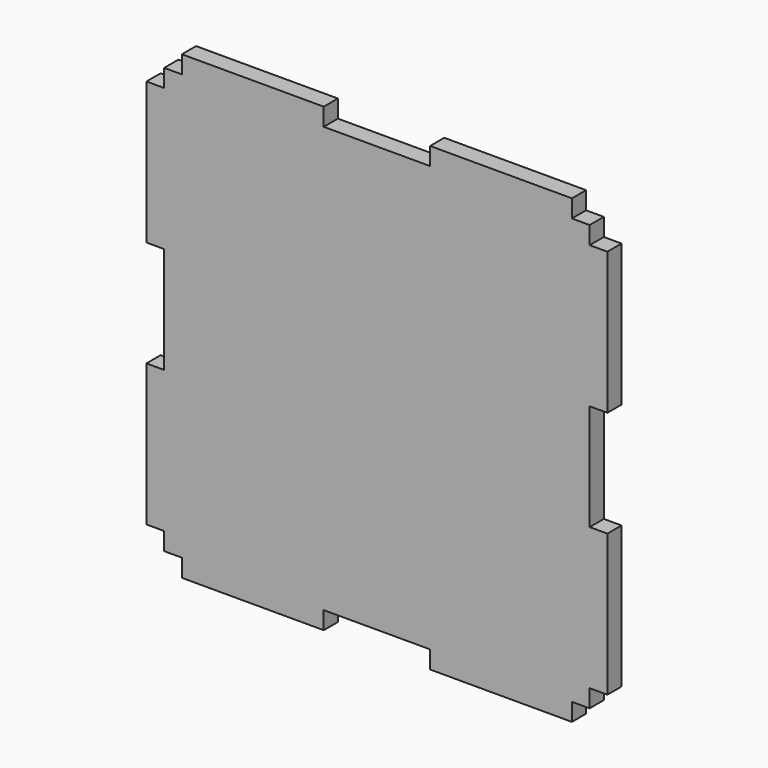
from build123d import *

# Parameters (mm, degrees)
F0_W     = 50.8
F0_H     = 6.35
F0_W_2   = 6.35
F0_H_2   = 50.8
F1_DEPTH = 6.35


with BuildPart() as f1:
    # F0 (on Front) → F1 (new body)
    with BuildSketch(Plane.XZ):
        Polygon((-69.85, 76.2), (-76.2, 76.2), (-76.2, 69.85), (-76.2, 19.05), (-76.2, -19.05), (-76.2, -69.85), (-76.2, -76.2), (-69.85, -76.2), (-19.05, -76.2), (19.05, -76.2), (69.85, -76.2), (76.2, -76.2), (76.2, -69.85), (76.2, -19.05), (76.2, 19.05), (76.2, 69.85), (76.2, 76.2), (69.85, 76.2), (19.05, 76.2), (-19.05, 76.2), align=None)
        with Locations((-44.45, 79.375)):
            Rectangle(F0_W, F0_H)
        with Locations((-79.375, 44.45)):
            Rectangle(F0_W_2, F0_H_2)
        with Locations((44.45, 79.375)):
            Rectangle(F0_W, F0_H)
        with Locations((-79.375, -44.45)):
            Rectangle(F0_W_2, F0_H_2)
        with Locations((79.375, 44.45)):
            Rectangle(F0_W_2, F0_H_2)
        with Locations((-44.45, -79.375)):
            Rectangle(F0_W, F0_H)
        with Locations((79.375, -44.45)):
            Rectangle(F0_W_2, F0_H_2)
        with Locations((44.45, -79.375)):
            Rectangle(F0_W, F0_H)
    extrude(amount=F1_DEPTH)


solid = f1.part
